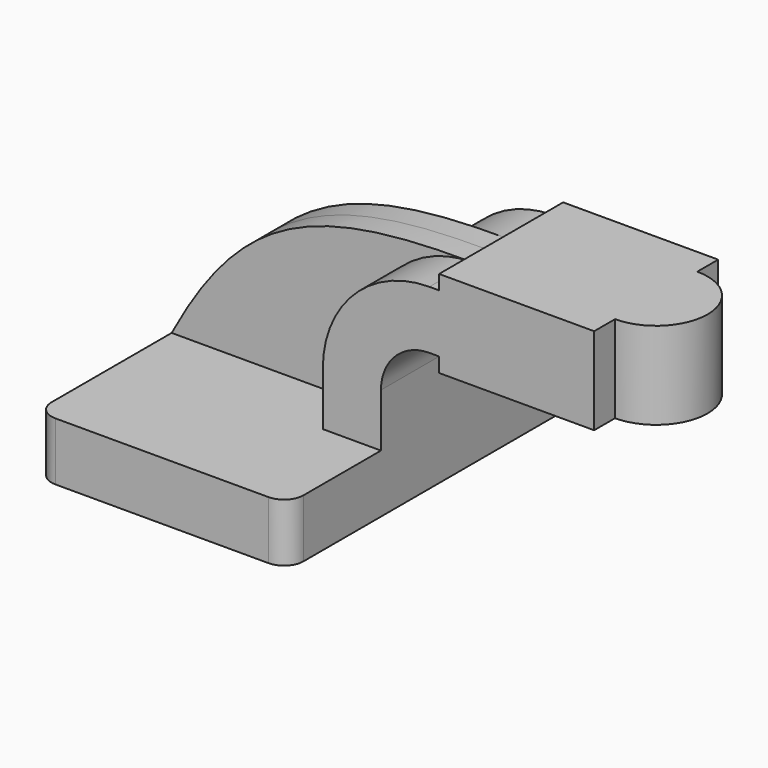
from build123d import *

# Parameters (mm, degrees)
F1_DEPTH = 63.5
F2_DEPTH = 7.9375
F0_W     = 33.9550597797
F0_H     = 4.7752
F0_H_2   = 19.05
F0_H_3   = 4.7498
F3_DEPTH = 25.4
F5_R     = 6.35


with BuildPart() as f1:
    # F0 (on Front) → F1 (new body, symmetric)
    with BuildSketch(Plane.XZ):
        Polygon((-41.275, 9.525), (-41.275, -9.525), (41.275, -9.525), (41.275, 9.525), (22.225, 9.525), align=None)
    extrude(amount=F1_DEPTH, both=True)

    # F0 (on Front) → F2 (join, symmetric)
    with BuildSketch(Plane.XZ):
        with BuildLine():
            add(Edge.make_bspline(
                [(-41.275, 9.525), (-19.039621679, 51.0745784103), (3.7831389959, 62.3737565157), (57.15, 61.9252)],
                knots=[0, 0, 0, 0, 111.5045361635, 111.5045361635, 111.5045361635, 111.5045361635], degree=3))
            Line((-41.275, 9.525), (22.225, 9.525))
            Line((22.225, 9.525), (22.225, 27.0002))
            ThreePointArc((22.225, 27.0002), (32.4542956671, 51.6959043329), (57.15, 61.9252))
        make_face()
    extrude(amount=F2_DEPTH, both=True)

    # F0 (on Front) → F3 (join, symmetric)
    with BuildSketch(Plane.XZ):
        with BuildLine():
            Line((22.225, 9.525), (41.275, 9.525))
            Line((41.275, 9.525), (41.275, 27.0002))
            ThreePointArc((41.275, 27.0002), (45.9246798487, 38.2255201513), (57.15, 42.8752))
            Line((57.15, 42.8752), (60.325, 42.8752))
            Line((60.325, 42.8752), (60.325, 61.9252))
            Line((60.325, 61.9252), (57.15, 61.9252))
            ThreePointArc((57.15, 61.9252), (32.4542956671, 51.6959043329), (22.225, 27.0002))
            Line((22.225, 27.0002), (22.225, 9.525))
        make_face()
        with Locations((77.3025298899, 40.4876)):
            Rectangle(F0_W, F0_H)
        with Locations((77.3025298899, 52.4002)):
            Rectangle(F0_W, F0_H_2)
        with Locations((77.3025298899, 64.3001)):
            Rectangle(F0_W, F0_H_3)
        Polygon((94.2800597797, 66.675), (94.2800597797, 61.9252), (94.2800597797, 42.8752), (94.2800597797, 38.1), (111.125, 38.1), (111.125, 66.675), align=None)
    extrude(amount=F3_DEPTH, both=True)

    # F0 (on Front) → F4 (revolve)
    with BuildSketch(Plane.XZ):
        Polygon((94.2800597797, 66.675), (94.2800597797, 61.9252), (94.2800597797, 42.8752), (94.2800597797, 38.1), (111.125, 38.1), (111.125, 66.675), align=None)
    revolve(axis=Axis((111.125, 0, 52.3875), (0, 0, -1)))

    # F5
    f5_edges = [f1.edges().sort_by_distance(p)[0] for p in [
        (-41.275, 63.5, 0),
        (-41.275, -63.5, 0),
        (41.275, -63.5, 0),
        (41.275, 63.5, 0),
    ]]
    fillet(f5_edges, radius=F5_R)


solid = f1.part
